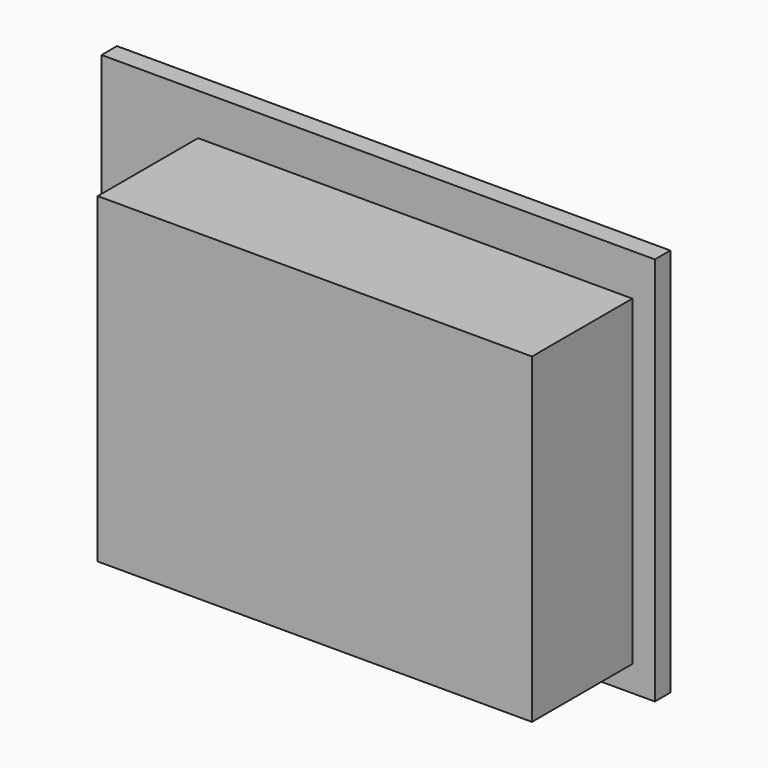
from build123d import *

# Parameters (mm, degrees)
BOX168_W                  = 6
BOX168_H                  = 121
BOX168_DEPTH              = 172
BOX169_W                  = 40
BOX169_H                  = 100
BOX169_DEPTH              = 135
FUSION057_ROLL_ANGLE      = -90
FUSION057_PLACEMENT_ANGLE = 90


with BuildPart() as cube128:
    # Box168 → Box168 (new body)
    with BuildSketch(Plane.XY):
        with Locations((3, 60.5)):
            Rectangle(BOX168_W, BOX168_H)
    extrude(amount=BOX168_DEPTH)


with BuildPart() as f_120_roll_holder:
    # Box169 → Box169 (new body)
    with BuildSketch(Plane(origin=(-39, 13, 7), x_dir=(1, 0, 0), z_dir=(0, 0, 1))):
        with Locations((20, 50)):
            Rectangle(BOX169_W, BOX169_H)
    extrude(amount=BOX169_DEPTH)

    # Fusion057: union Cube128
    add(cube128.part)


with BuildPart() as f_120_roll_holder_1:
    # Fusion057 roll: moved
    add(f_120_roll_holder.part.rotate(Axis((0, 0, 0), (1, 0, 0)), FUSION057_ROLL_ANGLE))


with BuildPart() as f_120_roll_holder_2:
    # Fusion057 placement: moved
    add(f_120_roll_holder_1.part.moved(Location((162, 0.5, 175))).rotate(Axis((162, 0.5, 175), (0, 0, 1)), FUSION057_PLACEMENT_ANGLE))


solid = f_120_roll_holder_2.part
